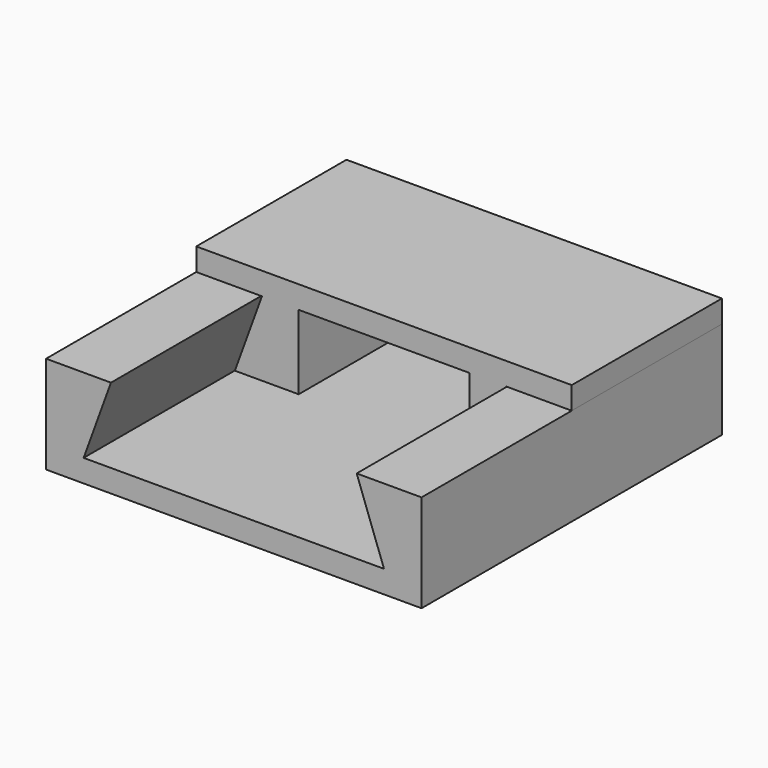
from build123d import *

# Parameters (mm, degrees)
F1_DEPTH = 50
F2_DEPTH = 25


with BuildPart() as f1:
    # F0 (on Front) → F1 (new body)
    with BuildSketch(Plane.XZ):
        Polygon((0, 3.1), (0, 3), (5, 3), (5.0363970234, 3.1), align=None)
        Polygon((0, 13), (0, 3.1), (5.0363970234, 3.1), (8.6397023427, 13), align=None)
        Polygon((0, 3), (0, 0), (50, 0), (50, 3), (45, 3), (44.8935822228, 3), (36.3602976573, 3), (13.6397023427, 3), (5.1064177772, 3), (5, 3), align=None)
        Polygon((44.9636029766, 3.1), (50, 3.1), (50, 13), (41.3602976573, 13), align=None)
        Polygon((45, 3), (50, 3), (50, 3.1), (44.9636029766, 3.1), align=None)
    extrude(amount=F1_DEPTH)


with BuildPart() as f2:
    # F0 (on Front) → F2 (new body)
    with BuildSketch(Plane.XZ):
        Polygon((0, 16), (0, 13), (8.6397023427, 13), (8.7461201199, 13), (13.6397023427, 13), (36.3602976573, 13), (41.2538798801, 13), (41.3602976573, 13), (50, 13), (50, 16), align=None)
        Polygon((8.7336716047, 12.9657979857), (5.1428148007, 3.1), (13.6397023427, 3.1), (13.6397023427, 13), (8.7461201199, 13), align=None)
        Polygon((36.3602976573, 3.1), (44.8571851993, 3.1), (41.2663283953, 12.9657979857), (41.2538798801, 13), (36.3602976573, 13), align=None)
    extrude(amount=F2_DEPTH)


solid = Compound([f1.part, f2.part])
